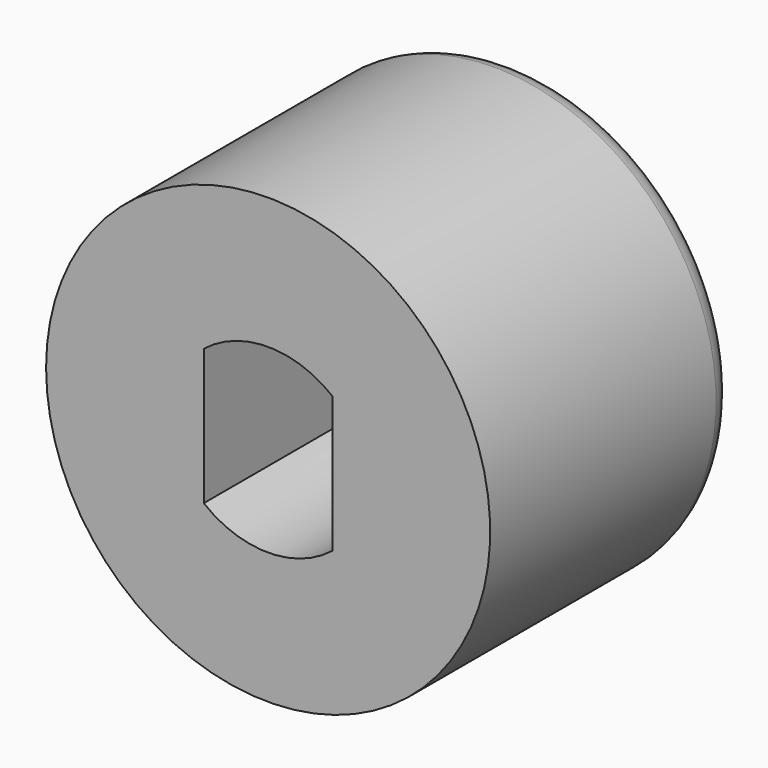
from build123d import *

# Parameters (mm, degrees)
F3_DEPTH = 5.334


with BuildPart() as f1:
    # F0 (on Top) → F1 (revolve)
    with BuildSketch(Plane.XY):
        with BuildLine():
            Line((-6.223, 0), (0, 0))
            Line((0, 0), (0, 7.874))
            Line((0, 7.874), (-5.659229, 8.636))
            ThreePointArc((-5.659229, 8.636), (-6.037134, 8.351132), (-6.223, 7.915913))
            Line((-6.223, 7.915913), (-6.223, 0))
        make_face()
    revolve(axis=Axis((0, 3.937, 0), (0, -1, 0)))

    # F2 (on Front) → F3 (cut)
    with BuildSketch(Plane.XZ):
        with BuildLine():
            Line((1.8034, -1.905), (1.8034, 1.905))
            ThreePointArc((1.8034, 1.905), (0, 2.538774), (-1.8034, 1.905))
            Line((-1.8034, 1.905), (-1.8034, -1.905))
            ThreePointArc((-1.8034, -1.905), (0, -2.538774), (1.8034, -1.905))
        make_face()
    extrude(amount=-F3_DEPTH, mode=Mode.SUBTRACT)


solid = f1.part
